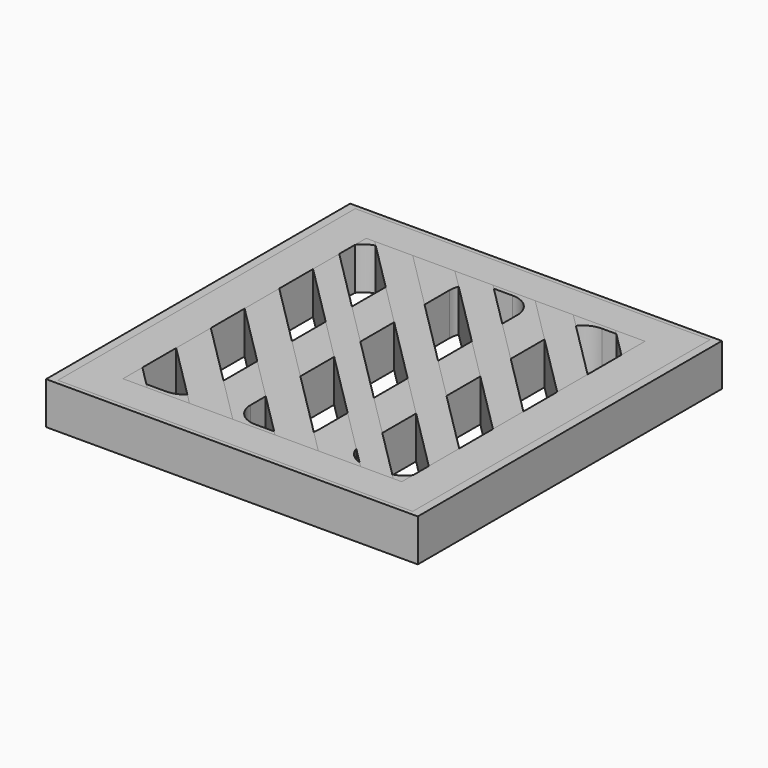
from build123d import *

# Parameters (mm, degrees)
SKETCH_W      = 44
SKETCH_H      = 45
PAD_DEPTH     = 5
SKETCH001_W   = 44
SKETCH001_H   = 45
PAD001_DEPTH  = 5
SKETCH002_W   = 42
SKETCH002_H   = 44
SKETCH002_W_2 = 33
SKETCH002_H_2 = 36
PAD002_DEPTH  = 5


with BuildPart() as verticalholes:
    # Sketch → Pad (new body)
    with BuildSketch(Plane.XY):
        Rectangle(SKETCH_W, SKETCH_H)
        with BuildLine():
            ThreePointArc((-14.22, 17.5), (-16.185757, 16.685757), (-17, 14.72))
            Line((-17, -14.72), (-17, 14.72))
            ThreePointArc((-17, -14.72), (-16.185757, -16.685757), (-14.22, -17.5))
            Line((-11.78, -17.5), (-14.22, -17.5))
            ThreePointArc((-11.78, -17.5), (-9.814243, -16.685757), (-9, -14.72))
            Line((-9, 14.72), (-9, -14.72))
            ThreePointArc((-9, 14.72), (-9.814243, 16.685757), (-11.78, 17.5))
            Line((-14.22, 17.5), (-11.78, 17.5))
        make_face(mode=Mode.SUBTRACT)
        with BuildLine():
            ThreePointArc((-1.22, 17.5), (-3.185757, 16.685757), (-4, 14.72))
            Line((-4, -14.72), (-4, 14.72))
            ThreePointArc((-4, -14.72), (-3.185757, -16.685757), (-1.22, -17.5))
            Line((1.22, -17.5), (-1.22, -17.5))
            ThreePointArc((1.22, -17.5), (3.185757, -16.685757), (4, -14.72))
            Line((4, 14.72), (4, -14.72))
            ThreePointArc((4, 14.72), (3.185757, 16.685757), (1.22, 17.5))
            Line((-1.22, 17.5), (1.22, 17.5))
        make_face(mode=Mode.SUBTRACT)
        with BuildLine():
            ThreePointArc((11.78, 17.5), (9.814243, 16.685757), (9, 14.72))
            Line((9, -14.72), (9, 14.72))
            ThreePointArc((9, -14.72), (9.814243, -16.685757), (11.78, -17.5))
            Line((14.22, -17.5), (11.78, -17.5))
            ThreePointArc((14.22, -17.5), (16.185757, -16.685757), (17, -14.72))
            Line((17, 14.72), (17, -14.72))
            ThreePointArc((17, 14.72), (16.185757, 16.685757), (14.22, 17.5))
            Line((11.78, 17.5), (14.22, 17.5))
        make_face(mode=Mode.SUBTRACT)
    extrude(amount=PAD_DEPTH)


with BuildPart() as diagonalholes:
    # Sketch001 → Pad001 (new body)
    with BuildSketch(Plane.XY):
        Rectangle(SKETCH001_W, SKETCH001_H)
        Polygon((-19, -16.5), (-19, -19), (-16.5, -19), align=None, mode=Mode.SUBTRACT)
        Polygon((-19, -7.625), (-19, -12.625), (-12.625, -19), (-7.625, -19), align=None, mode=Mode.SUBTRACT)
        Polygon((-19, 2.5), (-19, -2.5), (-2.5, -19), (2.5, -19), align=None, mode=Mode.SUBTRACT)
        Polygon((-19, 12.625), (-19, 7.625), (7.625, -19), (12.625, -19), align=None, mode=Mode.SUBTRACT)
        Polygon((-19, 19), (-19, 16.5), (16.5, -19), (19, -19), (19, -16.5), (-16.5, 19), align=None, mode=Mode.SUBTRACT)
        Polygon((-12, 19), (19, -12), (19, -7), (-7, 19), align=None, mode=Mode.SUBTRACT)
        Polygon((-2.5, 19), (19, -2.5), (19, 2.5), (2.5, 19), align=None, mode=Mode.SUBTRACT)
        Polygon((7, 19), (19, 7), (19, 12), (12, 19), align=None, mode=Mode.SUBTRACT)
        Polygon((16.5, 19), (19, 16.5), (19, 19), align=None, mode=Mode.SUBTRACT)
    extrude(amount=PAD001_DEPTH)


with BuildPart() as obj1:
    # Sketch002 → Pad002 (new body)
    with BuildSketch(Plane.XY):
        Rectangle(SKETCH002_W, SKETCH002_H)
        Rectangle(SKETCH002_W_2, SKETCH002_H_2, mode=Mode.SUBTRACT)
    extrude(amount=PAD002_DEPTH)


solid = Compound([verticalholes.part, diagonalholes.part, obj1.part])
